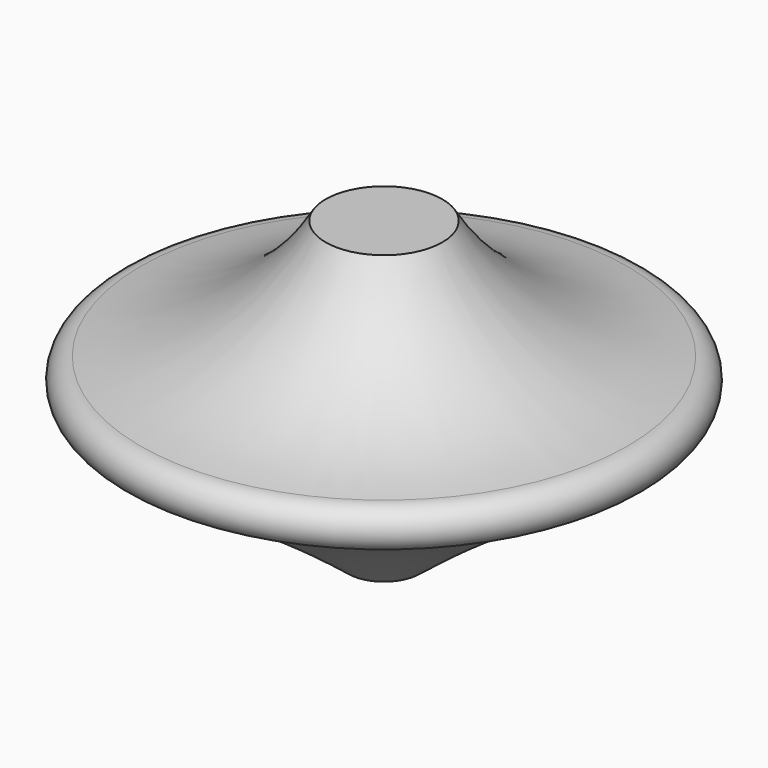
from build123d import *


with BuildPart() as f1:
    # F0 (on Front) → F1 (revolve)
    with BuildSketch(Plane.XZ):
        with BuildLine():
            Line((0, 52.07), (0, 0))
            Line((0, 0), (6.252309, 0))
            ThreePointArc((6.252309, 0), (23.797648, 12.874476), (42.380633, 24.199834))
            ThreePointArc((42.380633, 24.199834), (45.936633, 27.755834), (42.380633, 31.311834))
            ThreePointArc((42.380633, 31.311834), (23.776888, 37.82064), (10.16, 52.07))
            Line((10.16, 52.07), (0, 52.07))
        make_face()
    revolve(axis=Axis((0, 0, 26.035), (0, 0, -1)))


solid = f1.part
